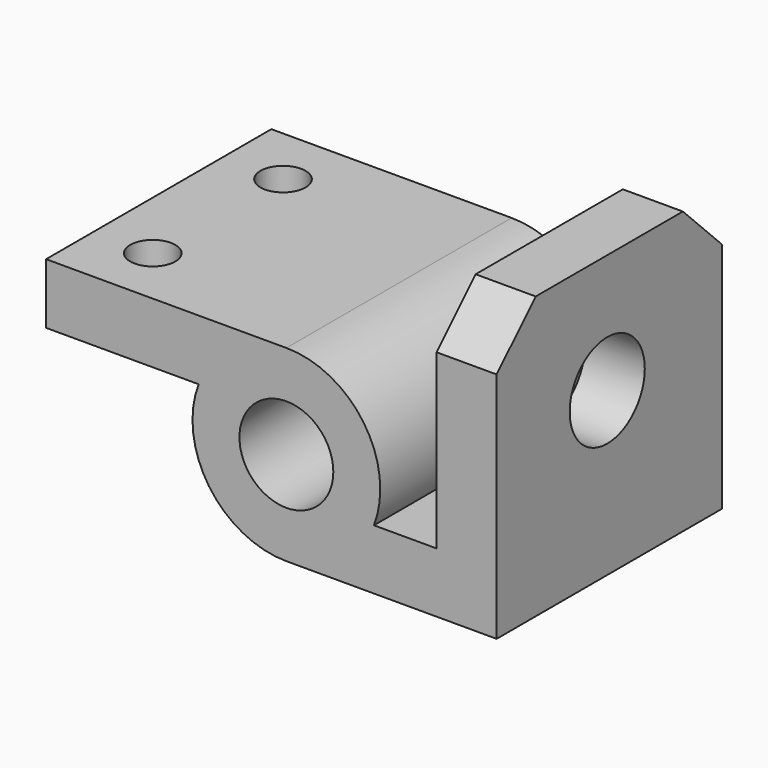
from build123d import *

# Parameters (mm, degrees)
F0_R     = 12.5
F1_DEPTH = 75
F2_SIZE  = 13
F3_SIZE  = 13
F5_R     = 6
F6_DEPTH = 25
F8_R     = 12.5
F9_DEPTH = 25


with BuildPart() as f1:
    # F0 (on Front) → F1 (new body)
    with BuildSketch(Plane.XZ):
        with BuildLine():
            ThreePointArc((23.323808, -9), (20.615528, 14.142136), (0, 25))
            Line((0, 25), (-64, 25))
            Line((-64, 25), (-64, 8.888163))
            Line((-64, 8.888163), (-23.366655, 8.888163))
            ThreePointArc((-23.366655, 8.888163), (-20.581595, -14.191475), (0, -25))
            Line((0, -25), (56, -25))
            Line((56, -25), (56, 50))
            Line((56, 50), (40, 50))
            Line((40, 50), (40, -9))
            Line((40, -9), (23.323808, -9))
        make_face()
        Circle(F0_R, mode=Mode.SUBTRACT)
    extrude(amount=F1_DEPTH)

    # F2
    f2_edges = [f1.edges().sort_by_distance(p)[0] for p in [
        (48, -75, 50),
    ]]
    chamfer(f2_edges, length=F2_SIZE)

    # F3
    f3_edges = [f1.edges().sort_by_distance(p)[0] for p in [
        (48, 0, 50),
    ]]
    chamfer(f3_edges, length=F3_SIZE)

    # F5 (on face) → F6 (cut)
    with BuildSketch(Plane.XY.offset(25)):
        with Locations((-48.045456, -16.069992)):
            Circle(F5_R)
        with Locations((-48.363637, -59.024539)):
            Circle(F5_R)
    extrude(amount=-F6_DEPTH, mode=Mode.SUBTRACT)

    # F8 (on face) → F9 (cut)
    with BuildSketch(Plane.YZ.offset(56)):
        with Locations((-38.181819, 18.293647)):
            Circle(F8_R)
    extrude(amount=-F9_DEPTH, mode=Mode.SUBTRACT)


solid = f1.part
